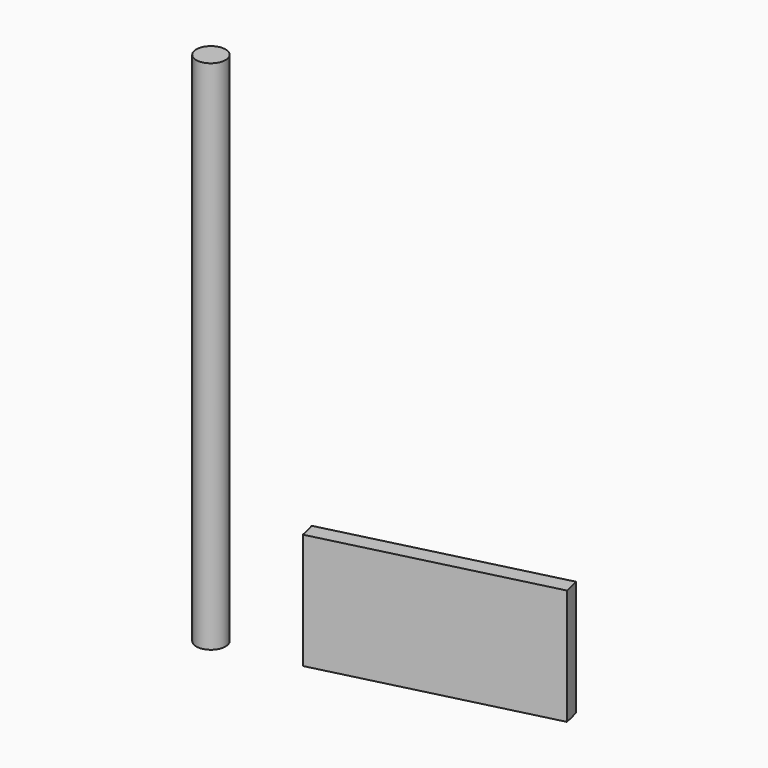
from build123d import *

# Parameters (mm, degrees)
F1_DEPTH = 5.6
F0_R     = 0.706341
F2_DEPTH = 25


with BuildPart() as f1:
    # F0 (on Top) → F1 (new body)
    with BuildSketch(Plane.XY):
        with BuildLine():
            ThreePointArc((3.904833, 0.97617), (3.948514, 0.780935), (3.982441, 0.583771))
            Line((3.982441, 0.583771), (14.6439, 3.24903))
            ThreePointArc((14.6439, 3.24903), (14.552171, 3.637899), (14.450118, 4.024187))
            Line((14.450118, 4.024187), (3.788659, 1.358928))
            ThreePointArc((3.788659, 1.358928), (3.851504, 1.168993), (3.904833, 0.97617))
        make_face()
    extrude(amount=F1_DEPTH)


with BuildPart() as f2:
    # F0 (on Top) → F2 (new body)
    with BuildSketch(Plane.XY):
        Circle(F0_R)
    extrude(amount=F2_DEPTH)


solid = Compound([f1.part, f2.part])
